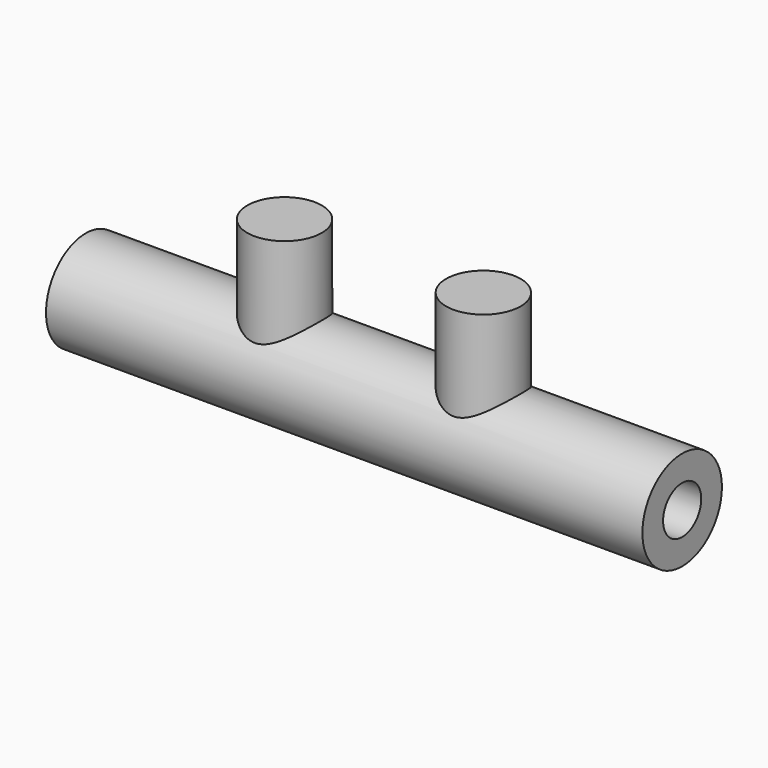
from build123d import *

# Parameters (mm, degrees)
F0_R          = 6.35
F1_DEPTH      = 76.2
F2_R          = 3.048
F3_DEPTH      = 76.2
F4_R          = 4.7625
F5_DEPTH      = 9.525
F5_DEPTH_BACK = 2.54


with BuildPart() as f1:
    # F0 (on Right) → F1 (new body)
    with BuildSketch(Plane.YZ):
        with Locations((12.7, -6.664779)):
            Circle(F0_R)
    extrude(amount=-F1_DEPTH)

    # F2 (on face) → F3 (cut, through all)
    with BuildSketch(Plane.YZ):
        with Locations((12.7, -6.664779)):
            Circle(F2_R)
    extrude(amount=-F3_DEPTH, mode=Mode.SUBTRACT)

    # F4 (on Top) → F5 (join, two sides)
    with BuildSketch(Plane.XY) as f5_sk:
        with Locations((-50.8, 12.7)):
            Circle(F4_R)
        with Locations((-25.4, 12.7)):
            Circle(F4_R)
    extrude(amount=F5_DEPTH)
    extrude(f5_sk.sketch, amount=-F5_DEPTH_BACK)


solid = f1.part
